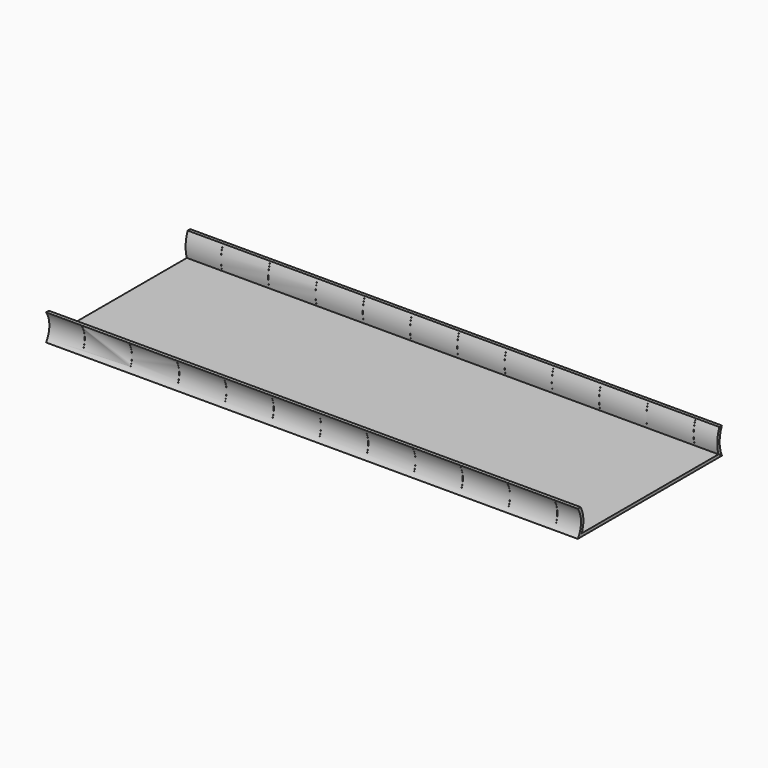
from build123d import *

# Parameters (mm, degrees)
F1_DEPTH      = 1143
F2_R          = 1.5875
F3_DEPTH      = 1143.001
F4_W          = 0.3175
F4_H          = 44.45
F5_DEPTH      = 193.3445428183
F5_DEPTH_BACK = 192.6822115509


with BuildPart() as f1:
    # F0 (on Right) → F1 (new body)
    with BuildSketch(Plane.YZ):
        with BuildLine():
            ThreePointArc((-193.675, 57.15), (-184.8763020632, 28.575), (-193.675, 0))
            Line((-193.675, 0), (193.675, 0))
            ThreePointArc((193.675, 0), (187.5626801821, 28.575), (193.675, 57.15))
            Line((193.675, 57.15), (186.7733895925, 57.15))
            ThreePointArc((186.7733895925, 57.15), (181.2871488449, 31.94300811), (184.5258543835, 6.35))
            Line((184.5258543835, 6.35), (-183.0248835163, 6.35))
            ThreePointArc((-183.0248835163, 6.35), (-178.6364166438, 32.1209796041), (-186.1829502369, 57.15))
            Line((-186.1829502369, 57.15), (-193.675, 57.15))
        make_face()
    extrude(amount=-F1_DEPTH)

    # F2 (on face) → F3 (cut, through all)
    with BuildSketch(Plane.YZ):
        with Locations((190.5, 53.975)):
            Circle(F2_R)
        with Locations((190.5, 3.175)):
            Circle(F2_R)
    extrude(amount=-F3_DEPTH, mode=Mode.SUBTRACT)

    # F4 (on Front) → F5 (cut, two sides)
    with BuildSketch(Plane.XZ) as f5_sk:
        with Locations((-50.95875, 31.75)):
            Rectangle(F4_W, F4_H)
        with Locations((-152.55875, 31.75)):
            Rectangle(F4_W, F4_H)
        with Locations((-254.15875, 31.75)):
            Rectangle(F4_W, F4_H)
        with Locations((-355.75875, 31.75)):
            Rectangle(F4_W, F4_H)
        with Locations((-457.35875, 31.75)):
            Rectangle(F4_W, F4_H)
        with Locations((-558.95875, 31.75)):
            Rectangle(F4_W, F4_H)
        with Locations((-660.55875, 31.75)):
            Rectangle(F4_W, F4_H)
        with Locations((-762.15875, 31.75)):
            Rectangle(F4_W, F4_H)
        with Locations((-863.75875, 31.75)):
            Rectangle(F4_W, F4_H)
        with Locations((-965.35875, 31.75)):
            Rectangle(F4_W, F4_H)
        with Locations((-1066.95875, 31.75)):
            Rectangle(F4_W, F4_H)
        with Locations((-1168.55875, 31.75)):
            Rectangle(F4_W, F4_H)
    extrude(amount=-F5_DEPTH, mode=Mode.SUBTRACT)
    extrude(f5_sk.sketch, amount=F5_DEPTH_BACK, mode=Mode.SUBTRACT)


solid = f1.part
